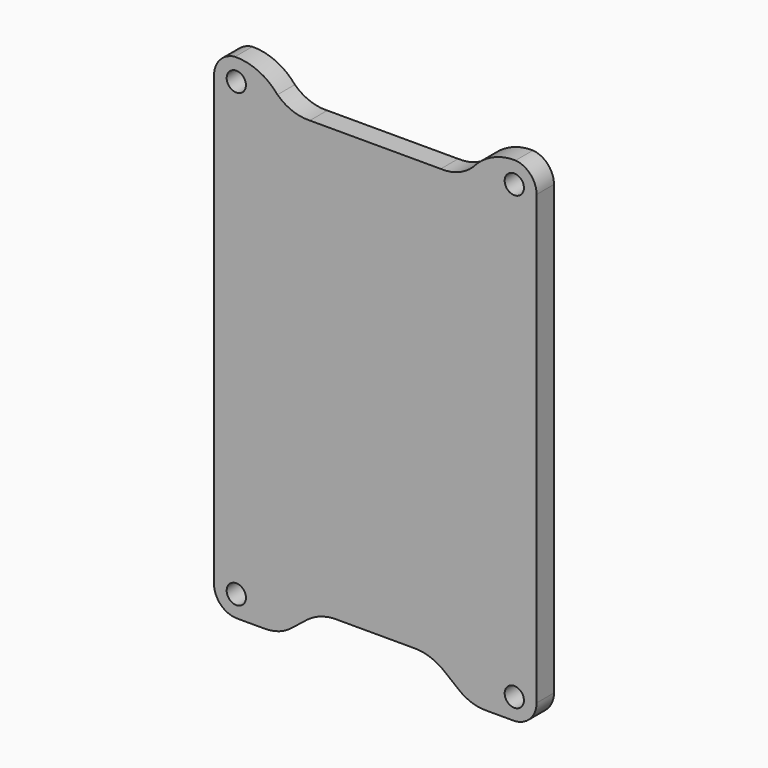
from build123d import *

# Parameters (mm, degrees)
F1_DEPTH = 3
F2_R     = 1.33
F3_DEPTH = 3.001


with BuildPart() as f1:
    # F0 (on Front) → F1 (new body)
    with BuildSketch(Plane.XZ):
        with BuildLine():
            ThreePointArc((-19.35648, 34.085312), (-21.41906, 33.046163), (-22.25, 30.891259))
            Line((-22.25, 30.891259), (-22.25, -30.860331))
            ThreePointArc((-22.25, -30.860331), (-21.32844, -33.100719), (-19.097213, -34.04424))
            Line((-19.097213, -34.04424), (-15.3672, -34.04424))
            ThreePointArc((-15.3672, -34.04424), (-13.279512, -33.719597), (-11.44242, -32.676084))
            Line((-11.44242, -32.676084), (-9.386582, -31.040758))
            ThreePointArc((-9.386582, -31.040758), (-7.333283, -29.983659), (-5.04129, -29.700344))
            Line((-5.04129, -29.700344), (0, -29.700344))
            Line((0, -29.700344), (5.04129, -29.700344))
            ThreePointArc((5.04129, -29.700344), (7.333283, -29.983659), (9.386582, -31.040758))
            Line((9.386582, -31.040758), (11.44242, -32.676084))
            ThreePointArc((11.44242, -32.676084), (13.279512, -33.719597), (15.3672, -34.04424))
            Line((15.3672, -34.04424), (19.097213, -34.04424))
            ThreePointArc((19.097213, -34.04424), (21.32844, -33.100719), (22.25, -30.860331))
            Line((22.25, -30.860331), (22.25, 30.891259))
            ThreePointArc((22.25, 30.891259), (21.41906, 33.046163), (19.35648, 34.085312))
            ThreePointArc((19.35648, 34.085312), (16.119272, 33.397026), (13.494445, 31.381204))
            ThreePointArc((13.494445, 31.381204), (11.432837, 30.084307), (9.027799, 29.699656))
            Line((9.027799, 29.699656), (0, 29.699656))
            Line((0, 29.699656), (-9.027799, 29.699656))
            ThreePointArc((-9.027799, 29.699656), (-11.432837, 30.084307), (-13.494445, 31.381204))
            ThreePointArc((-13.494445, 31.381204), (-16.119272, 33.397026), (-19.35648, 34.085312))
        make_face()
    extrude(amount=F1_DEPTH)

    # F2 (on face) → F3 (cut, through all)
    with BuildSketch(Plane.XZ.offset(3)):
        with Locations((-19.175, 31.125)):
            Circle(F2_R)
        with Locations((19.175, 31.125)):
            Circle(F2_R)
        with Locations((19.175, -31.125)):
            Circle(F2_R)
        with Locations((-19.175, -31.125)):
            Circle(F2_R)
    extrude(amount=-F3_DEPTH, mode=Mode.SUBTRACT)


solid = f1.part
